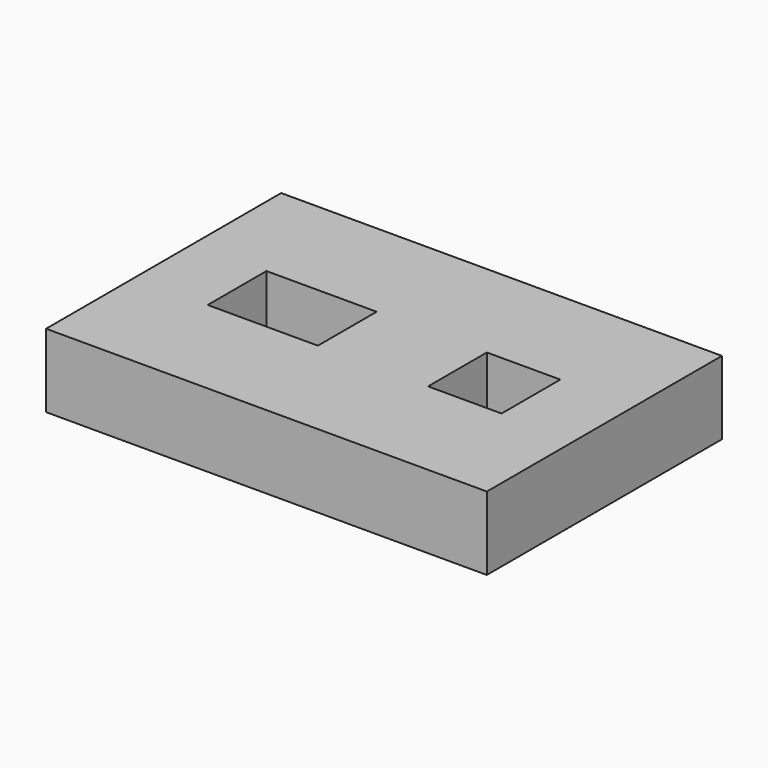
from build123d import *

# Parameters (mm, degrees)
F0_W     = 76.2
F0_H     = 50.8
F0_W_2   = 19.05
F0_H_2   = 12.7
F0_W_3   = 12.7
F1_DEPTH = 12.7


with BuildPart() as f1:
    # F0 (on Top) → F1 (new body)
    with BuildSketch(Plane.XY):
        Rectangle(F0_W, F0_H)
        with Locations((-15.875, 0)):
            Rectangle(F0_W_2, F0_H_2, mode=Mode.SUBTRACT)
        with Locations((19.05, 0)):
            Rectangle(F0_W_3, F0_H_2, mode=Mode.SUBTRACT)
    extrude(amount=F1_DEPTH)


solid = f1.part
